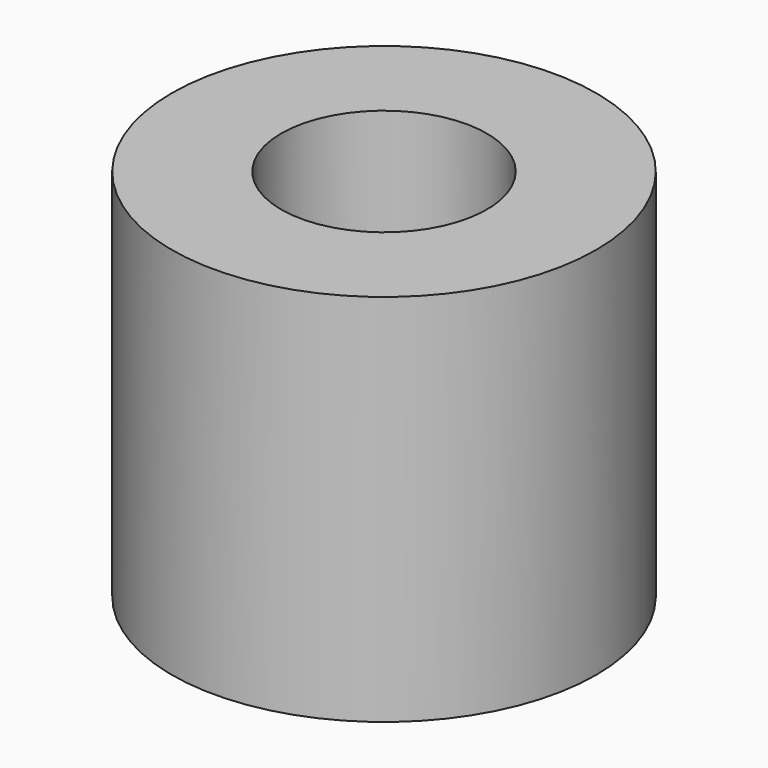
from build123d import *

# Parameters (mm, degrees)
F0_R     = 9.075
F1_DEPTH = 16
F2_D     = 8.8


with BuildPart() as f1:
    # F0 (on Top) → F1 (new body)
    with BuildSketch(Plane.XY):
        Circle(F0_R)
    extrude(amount=-F1_DEPTH)

    # F2 (through all)
    with Locations(Plane.XY):
        with Locations((0, 0)):
            Hole(F2_D / 2)


solid = f1.part
